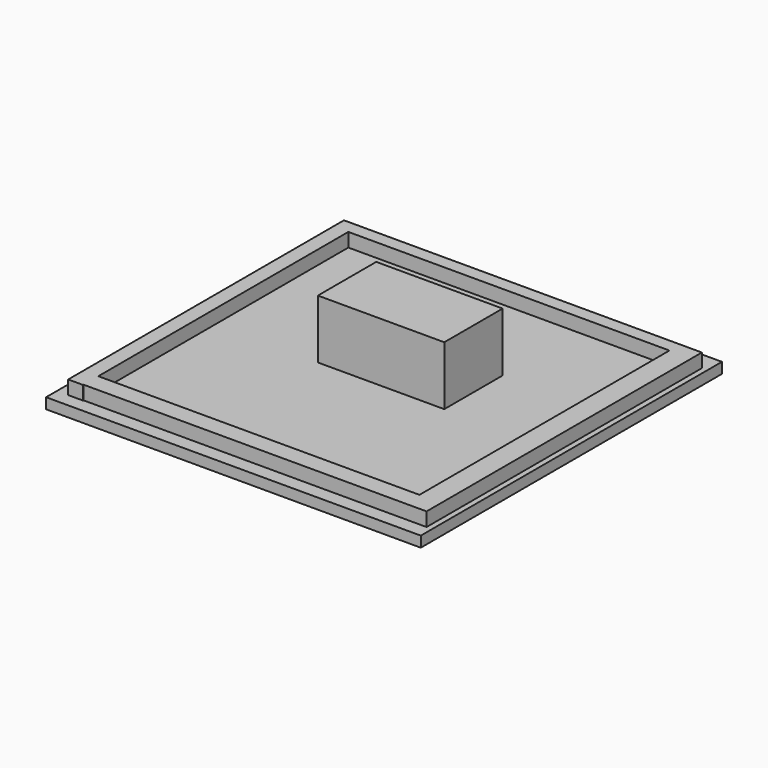
from build123d import *

# Parameters (mm, degrees)
F0_W     = 151.8794447184
F0_H     = 152.5772064924
F1_DEPTH = 4.318
F2_W     = 130.1674246788
F2_H     = 5.3557232022
F2_H_2   = 7.4514448643
F3_DEPTH = 5.588
F4_W     = 51.2286853045
F4_H     = 29.5729218051
F5_DEPTH = 23.876


with BuildPart() as f1:
    # F0 (on Top) → F1 (new body)
    with BuildSketch(Plane.XY):
        with Locations((0.1162961125, 0)):
            Rectangle(F0_W, F0_H)
    extrude(amount=F1_DEPTH)

    # F2 (on face) → F3 (join)
    with BuildSketch(Plane.XY.offset(4.318)):
        Polygon((-65.2001425624, 63.5701417923), (-65.2001425624, 68.9258649945), (-71.2544471025, 68.9258649945), (-71.2544471025, -70.7887262106), (-65.2001425624, -70.7887262106), (-65.2001425624, -70.5558732152), (-65.2001425624, -63.1044283509), align=None)
        with Locations((-0.116430223, 66.2480033934)):
            Rectangle(F2_W, F2_H)
        Polygon((73.8158747554, 68.9258649945), (64.9672821164, 68.9258649945), (64.9672821164, 63.5701417923), (64.9672821164, -63.1044283509), (64.9672821164, -70.5558732152), (73.8158747554, -70.5558732152), align=None)
        with Locations((-0.116430223, -66.8301507831)):
            Rectangle(F2_W, F2_H_2)
    extrude(amount=F3_DEPTH)

    # F4 (on face) → F5 (join)
    with BuildSketch(Plane.XY.offset(4.318)):
        with Locations((2.0957188681, 10.8278808184)):
            Rectangle(F4_W, F4_H)
    extrude(amount=F5_DEPTH)


solid = f1.part
